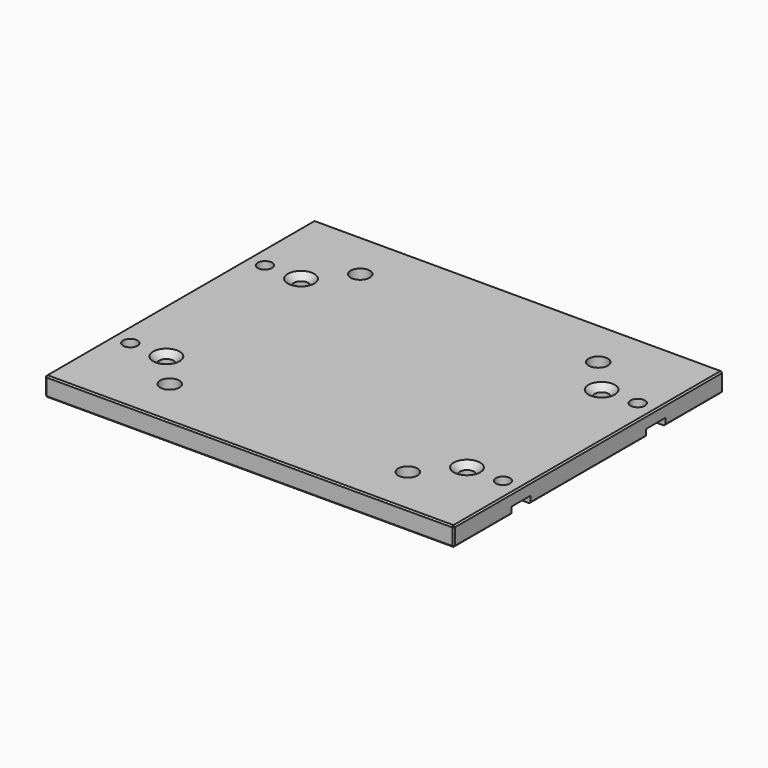
from build123d import *

# Parameters (mm, degrees)
F0_W          = 170
F0_H          = 140
F0_R          = 4
F1_DEPTH      = 8
F2_SIZE       = 3
F3_W          = 180
F3_H          = 10
F4_DEPTH      = 25
F4_DEPTH_BACK = 3
F5_R          = 3
F6_DEPTH      = 25
F7_SIZE       = 2.5
F8_SIZE       = 0.6


with BuildPart() as f1:
    # F0 (on Top) → F1 (new body)
    with BuildSketch(Plane.XY):
        Rectangle(F0_W, F0_H)
        with Locations((-49.4974746831, -49.4974746831)):
            Circle(F0_R, mode=Mode.SUBTRACT)
        with Locations((49.4974746831, -49.4974746831)):
            Circle(F0_R, mode=Mode.SUBTRACT)
        with Locations((-49.4974746831, 49.4974746831)):
            Circle(F0_R, mode=Mode.SUBTRACT)
        with Locations((49.4974746831, 49.4974746831)):
            Circle(F0_R, mode=Mode.SUBTRACT)
    extrude(amount=F1_DEPTH)

    # F2
    f2_edges = [f1.edges().sort_by_distance(p)[0] for p in [
        (-53.497475, -49.497475, 0),
        (-53.497475, 49.497475, 0),
        (45.497475, 49.497475, 0),
        (45.497475, -49.497475, 0),
    ]]
    chamfer(f2_edges, length=F2_SIZE)

    # F3 (on Top) → F4 (cut, two sides)
    with BuildSketch(Plane.XY) as f4_sk:
        with Locations((0, -35)):
            Rectangle(F3_W, F3_H)
        with Locations((0, 35)):
            Rectangle(F3_W, F3_H)
    extrude(amount=-F4_DEPTH, mode=Mode.SUBTRACT)
    extrude(f4_sk.sketch, amount=F4_DEPTH_BACK, mode=Mode.SUBTRACT)

    # F5 (on Top) → F6 (cut)
    with BuildSketch(Plane.XY):
        with Locations((-62.5, -35)):
            Circle(F5_R)
        with Locations((-77.5, -35)):
            Circle(F5_R)
        with Locations((-62.5, 35)):
            Circle(F5_R)
        with Locations((-77.5, 35)):
            Circle(F5_R)
        with Locations((62.5, 35)):
            Circle(F5_R)
        with Locations((77.5, 35)):
            Circle(F5_R)
        with Locations((62.5, -35)):
            Circle(F5_R)
        with Locations((77.5, -35)):
            Circle(F5_R)
    extrude(amount=F6_DEPTH, mode=Mode.SUBTRACT)

    # F7
    f7_edges = [f1.edges().sort_by_distance(p)[0] for p in [
        (-65.5, 35, 8),
        (-65.5, -35, 8),
        (59.5, -35, 8),
        (59.5, 35, 8),
    ]]
    chamfer(f7_edges, length=F7_SIZE)

    # F8
    f8_edges = [f1.edges().sort_by_distance(p)[0] for p in [
        (-85, 0, 8),
        (0, 70, 8),
        (0, -70, 8),
        (85, 0, 8),
        (85, -70, 4),
        (-85, -70, 4),
        (85, 55, 0),
        (-85, 55, 0),
        (0, 70, 0),
        (-85, 0, 0),
        (-85, -55, 0),
        (85, 0, 0),
        (85, -55, 0),
        (0, -70, 0),
        (85, 70, 4),
        (-85, 70, 4),
    ]]
    chamfer(f8_edges, length=F8_SIZE)


solid = f1.part
